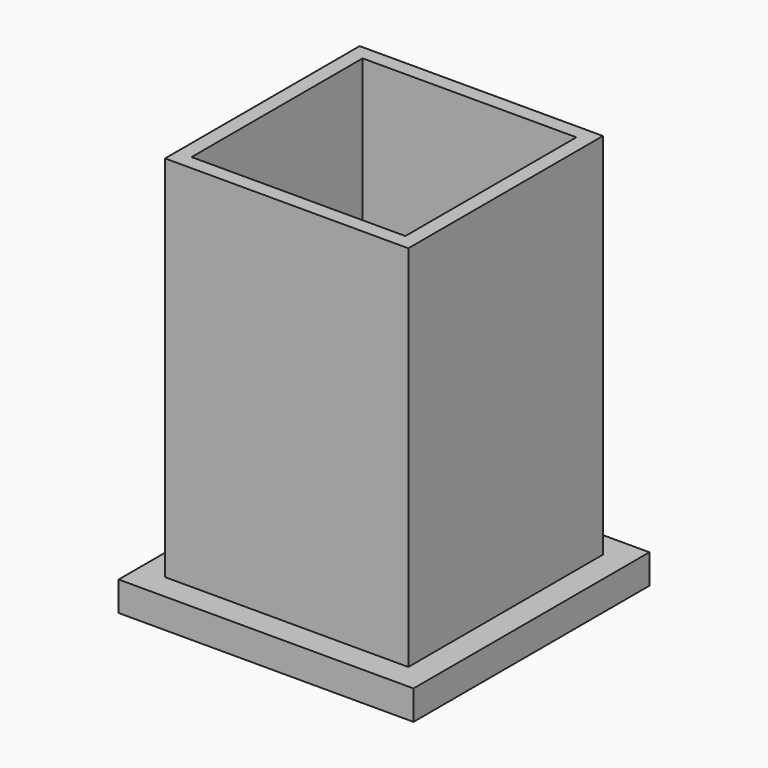
from build123d import *

# Parameters (mm, degrees)
F1_DEPTH = 2
F2_W     = 16.5
F2_H     = 16.5
F3_DEPTH = 25
F4_W     = 14.5
F4_H     = 14.5
F5_DEPTH = 24


with BuildPart() as f1:
    # F0 (on Top) → F1 (new body)
    with BuildSketch(Plane.XY):
        Polygon((10, -10), (-10, 10), (-10, -10), align=None)
        Polygon((10, 10), (-10, 10), (10, -10), align=None)
    extrude(amount=F1_DEPTH)

    # F2 (on face) → F3 (join)
    with BuildSketch(Plane.XY.offset(2)):
        Rectangle(F2_W, F2_H)
    extrude(amount=F3_DEPTH)

    # F4 (on face) → F5 (cut)
    with BuildSketch(Plane.XY.offset(27)):
        Rectangle(F4_W, F4_H)
    extrude(amount=-F5_DEPTH, mode=Mode.SUBTRACT)


solid = f1.part
